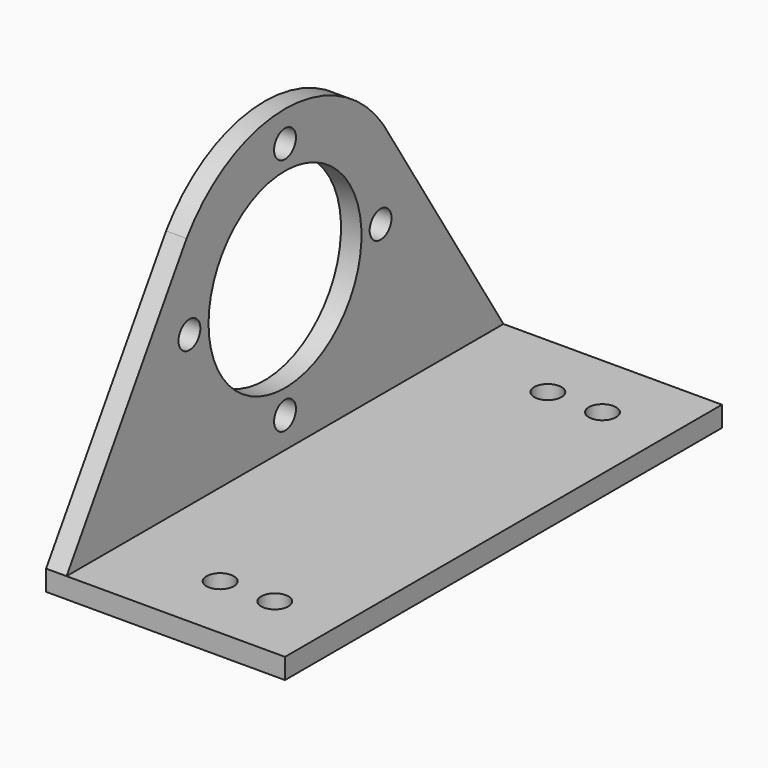
from build123d import *

# Parameters (mm, degrees)
SKETCH_W      = 35
SKETCH_H      = 80
SKETCH_R      = 2
PAD_DEPTH     = 3
SKETCH001_R   = 14
SKETCH001_R_2 = 2
PAD001_DEPTH  = 3


with BuildPart() as part:
    # Sketch → Pad (new body)
    with BuildSketch(Plane.XY):
        Rectangle(SKETCH_W, SKETCH_H)
        with Locations((0, 30)):
            Circle(SKETCH_R, mode=Mode.SUBTRACT)
        with Locations((0, -30)):
            Circle(SKETCH_R, mode=Mode.SUBTRACT)
        with Locations((8, 30)):
            Circle(SKETCH_R, mode=Mode.SUBTRACT)
        with Locations((8, -30)):
            Circle(SKETCH_R, mode=Mode.SUBTRACT)
    extrude(amount=-PAD_DEPTH)

    # Sketch001 (on Face4 of Pad) → Pad001 (join)
    with BuildSketch(Plane(origin=(-17.5, 0, 0), x_dir=(0, -1, 0), z_dir=(-1, 0, 0))):
        with BuildLine():
            Line((40, 0), (-40, 0))
            Line((-40, 0), (-18.024946, 34.613538))
            ThreePointArc((18.024946, 34.613538), (0, 44), (-18.024946, 34.613538))
            Line((40, 0), (18.024946, 34.613538))
        make_face()
        with Locations((0, 22)):
            Circle(SKETCH001_R, mode=Mode.SUBTRACT)
        with Locations((0, 4.5)):
            Circle(SKETCH001_R_2, mode=Mode.SUBTRACT)
        with Locations((0, 39.5)):
            Circle(SKETCH001_R_2, mode=Mode.SUBTRACT)
        with Locations((-17.5, 22)):
            Circle(SKETCH001_R_2, mode=Mode.SUBTRACT)
        with Locations((17.5, 22)):
            Circle(SKETCH001_R_2, mode=Mode.SUBTRACT)
    extrude(amount=-PAD001_DEPTH)


solid = part.part
